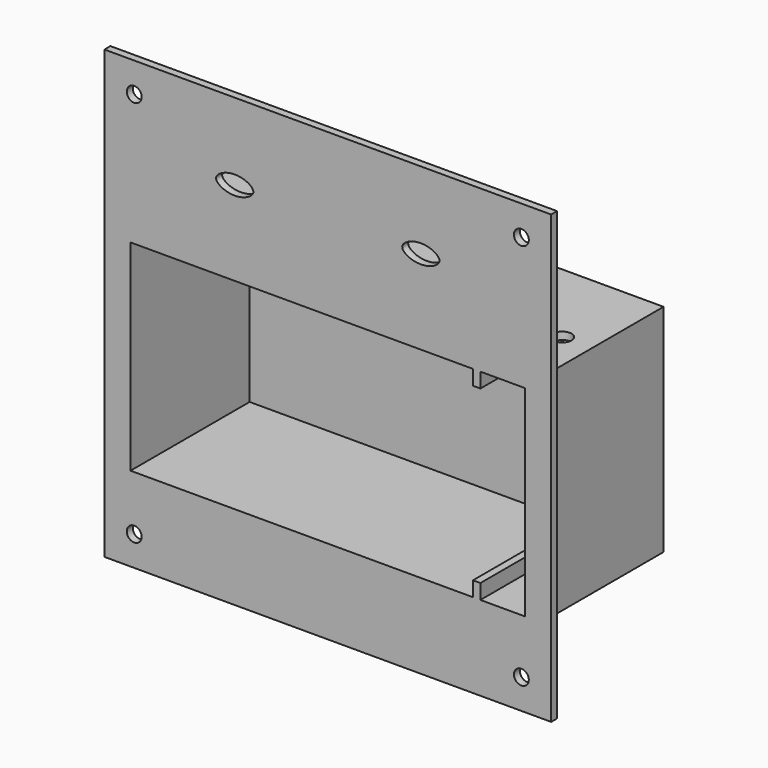
from build123d import *

# Parameters (mm, degrees)
F0_W     = 60
F0_H     = 60
F0_R     = 1
F0_W_2   = 55
F0_H_2   = 29
F1_DEPTH = 1
F2_DEPTH = 20
F3_W     = 55
F3_H     = 29
F4_DEPTH = 2
F5_R     = 1.25
F6_DEPTH = 1


with BuildPart() as f1:
    # F0 (on Front) → F1 (new body)
    with BuildSketch(Plane.XZ):
        with Locations((125, -47.5)):
            Rectangle(F0_W, F0_H)
        with Locations((99, -73.5)):
            Circle(F0_R, mode=Mode.SUBTRACT)
        with BuildLine():
            add(Edge.make_bspline(
                [(115.5, -27.8333333333), (115.5053577108, -27.7788793608), (115.5046155164, -27.6173160698), (115.4229520333, -27.3159864687), (115.1694184757, -27.0083733137), (114.8396391927, -26.7320721453), (114.4565636597, -26.5055538646), (113.9744634164, -26.3044772096), (113.4434639551, -26.138395569), (112.9239685432, -26.0775980772), (112.622564856, -26.077294909), (112.5, -26.0833333333)],
                knots=[0, 0, 0, 0, 0.1634113073, 0.4836883399, 0.9124679887, 1.3341141703, 1.7731849289, 2.2406235312, 2.899707559, 3.4345550853, 3.8026975859, 3.8026975859, 3.8026975859, 3.8026975859], degree=3))
            add(Edge.make_bspline(
                [(115.5, -27.8333333333), (115.5053577108, -27.8877873059), (115.5046155164, -28.0493505969), (115.4229520333, -28.3506801979), (115.1694184757, -28.658293353), (114.8396391927, -28.9345945214), (114.4565636597, -29.1611128021), (113.9744634164, -29.3621894571), (113.4434639551, -29.5282710976), (112.9239685432, -29.5890685895), (112.622564856, -29.5893717577), (112.5, -29.5833333333)],
                knots=[0, 0, 0, 0, 0.1634113073, 0.4836883399, 0.9124679887, 1.3341141703, 1.7731849289, 2.2406235312, 2.899707559, 3.4345550853, 3.8026975859, 3.8026975859, 3.8026975859, 3.8026975859], degree=3))
            add(Edge.make_bspline(
                [(109.5, -27.8333333333), (109.4946422892, -27.8877873059), (109.4953844836, -28.0493505969), (109.5770479667, -28.350680198), (109.8305815243, -28.658293353), (110.1603608073, -28.9345945214), (110.5434363403, -29.1611128021), (111.0255365836, -29.3621894571), (111.5565360449, -29.5282710976), (112.0760314568, -29.5890685895), (112.377435144, -29.5893717577), (112.5, -29.5833333333)],
                knots=[0, 0, 0, 0, 0.1634113073, 0.4836883399, 0.9124679887, 1.3341141703, 1.7731849289, 2.2406235313, 2.899707559, 3.4345550853, 3.8026975859, 3.8026975859, 3.8026975859, 3.8026975859], degree=3))
            add(Edge.make_bspline(
                [(109.5, -27.8333333333), (109.4946422892, -27.7788793608), (109.4953844836, -27.6173160698), (109.5770479667, -27.3159864687), (109.8305815243, -27.0083733137), (110.1603608073, -26.7320721453), (110.5434363403, -26.5055538646), (111.0255365836, -26.3044772096), (111.5565360449, -26.138395569), (112.0760314568, -26.0775980772), (112.377435144, -26.077294909), (112.5, -26.0833333333)],
                knots=[0, 0, 0, 0, 0.1634113073, 0.4836883399, 0.9124679887, 1.3341141703, 1.7731849289, 2.2406235313, 2.899707559, 3.4345550853, 3.8026975859, 3.8026975859, 3.8026975859, 3.8026975859], degree=3))
        make_face(mode=Mode.SUBTRACT)
        with Locations((151, -73.5)):
            Circle(F0_R, mode=Mode.SUBTRACT)
        with Locations((125, -52.6666666667)):
            Rectangle(F0_W_2, F0_H_2, mode=Mode.SUBTRACT)
        with BuildLine():
            add(Edge.make_bspline(
                [(134.5, -27.8333333333), (134.4946422892, -27.8877873059), (134.4953844836, -28.0493505969), (134.5770479667, -28.3506801979), (134.8305815243, -28.658293353), (135.1603608073, -28.9345945214), (135.5434363403, -29.1611128021), (136.0255365836, -29.3621894571), (136.5565360449, -29.5282710976), (137.0760314568, -29.5890685895), (137.377435144, -29.5893717577), (137.5, -29.5833333333)],
                knots=[0, 0, 0, 0, 0.1634113073, 0.4836883399, 0.9124679887, 1.3341141703, 1.7731849289, 2.2406235312, 2.899707559, 3.4345550853, 3.8026975859, 3.8026975859, 3.8026975859, 3.8026975859], degree=3))
            add(Edge.make_bspline(
                [(134.5, -27.8333333333), (134.4946422892, -27.7788793608), (134.4953844836, -27.6173160698), (134.5770479667, -27.3159864687), (134.8305815243, -27.0083733137), (135.1603608073, -26.7320721453), (135.5434363403, -26.5055538646), (136.0255365836, -26.3044772096), (136.5565360449, -26.138395569), (137.0760314568, -26.0775980772), (137.377435144, -26.077294909), (137.5, -26.0833333333)],
                knots=[0, 0, 0, 0, 0.1634113073, 0.4836883399, 0.9124679887, 1.3341141703, 1.7731849289, 2.2406235312, 2.899707559, 3.4345550853, 3.8026975859, 3.8026975859, 3.8026975859, 3.8026975859], degree=3))
            add(Edge.make_bspline(
                [(140.5, -27.8333333333), (140.5053577108, -27.7788793608), (140.5046155164, -27.6173160698), (140.4229520333, -27.3159864687), (140.1694184757, -27.0083733137), (139.8396391927, -26.7320721453), (139.4565636597, -26.5055538646), (138.9744634164, -26.3044772096), (138.4434639551, -26.138395569), (137.9239685432, -26.0775980772), (137.622564856, -26.077294909), (137.5, -26.0833333333)],
                knots=[0, 0, 0, 0, 0.1634113073, 0.4836883399, 0.9124679887, 1.3341141703, 1.7731849289, 2.2406235313, 2.899707559, 3.4345550853, 3.8026975859, 3.8026975859, 3.8026975859, 3.8026975859], degree=3))
            add(Edge.make_bspline(
                [(140.5, -27.8333333333), (140.5053577108, -27.8877873059), (140.5046155164, -28.0493505969), (140.4229520333, -28.350680198), (140.1694184757, -28.658293353), (139.8396391927, -28.9345945214), (139.4565636597, -29.1611128021), (138.9744634164, -29.3621894571), (138.4434639551, -29.5282710976), (137.9239685432, -29.5890685895), (137.622564856, -29.5893717577), (137.5, -29.5833333333)],
                knots=[0, 0, 0, 0, 0.1634113073, 0.4836883399, 0.9124679887, 1.3341141703, 1.7731849289, 2.2406235313, 2.899707559, 3.4345550853, 3.8026975859, 3.8026975859, 3.8026975859, 3.8026975859], degree=3))
        make_face(mode=Mode.SUBTRACT)
        with Locations((99, -21.5)):
            Circle(F0_R, mode=Mode.SUBTRACT)
        with Locations((151, -21.5)):
            Circle(F0_R, mode=Mode.SUBTRACT)
        with BuildLine():
            add(Edge.make_bspline(
                [(115.5, -27.8333333333), (115.5053577108, -27.8877873059), (115.5046155164, -28.0493505969), (115.4229520333, -28.3506801979), (115.1694184757, -28.658293353), (114.8396391927, -28.9345945214), (114.4565636597, -29.1611128021), (113.9744634164, -29.3621894571), (113.4434639551, -29.5282710976), (112.9239685432, -29.5890685895), (112.622564856, -29.5893717577), (112.5, -29.5833333333)],
                knots=[0, 0, 0, 0, 0.1634113073, 0.4836883399, 0.9124679887, 1.3341141703, 1.7731849289, 2.2406235312, 2.899707559, 3.4345550853, 3.8026975859, 3.8026975859, 3.8026975859, 3.8026975859], degree=3))
            add(Edge.make_bspline(
                [(115.5, -27.8333333333), (115.5053577108, -27.7788793608), (115.5046155164, -27.6173160698), (115.4229520333, -27.3159864687), (115.1694184757, -27.0083733137), (114.8396391927, -26.7320721453), (114.4565636597, -26.5055538646), (113.9744634164, -26.3044772096), (113.4434639551, -26.138395569), (112.9239685432, -26.0775980772), (112.622564856, -26.077294909), (112.5, -26.0833333333)],
                knots=[0, 0, 0, 0, 0.1634113073, 0.4836883399, 0.9124679887, 1.3341141703, 1.7731849289, 2.2406235312, 2.899707559, 3.4345550853, 3.8026975859, 3.8026975859, 3.8026975859, 3.8026975859], degree=3))
            add(Edge.make_bspline(
                [(109.5, -27.8333333333), (109.4946422892, -27.7788793608), (109.4953844836, -27.6173160698), (109.5770479667, -27.3159864687), (109.8305815243, -27.0083733137), (110.1603608073, -26.7320721453), (110.5434363403, -26.5055538646), (111.0255365836, -26.3044772096), (111.5565360449, -26.138395569), (112.0760314568, -26.0775980772), (112.377435144, -26.077294909), (112.5, -26.0833333333)],
                knots=[0, 0, 0, 0, 0.1634113073, 0.4836883399, 0.9124679887, 1.3341141703, 1.7731849289, 2.2406235313, 2.899707559, 3.4345550853, 3.8026975859, 3.8026975859, 3.8026975859, 3.8026975859], degree=3))
            add(Edge.make_bspline(
                [(109.5, -27.8333333333), (109.4946422892, -27.8877873059), (109.4953844836, -28.0493505969), (109.5770479667, -28.350680198), (109.8305815243, -28.658293353), (110.1603608073, -28.9345945214), (110.5434363403, -29.1611128021), (111.0255365836, -29.3621894571), (111.5565360449, -29.5282710976), (112.0760314568, -29.5890685895), (112.377435144, -29.5893717577), (112.5, -29.5833333333)],
                knots=[0, 0, 0, 0, 0.1634113073, 0.4836883399, 0.9124679887, 1.3341141703, 1.7731849289, 2.2406235313, 2.899707559, 3.4345550853, 3.8026975859, 3.8026975859, 3.8026975859, 3.8026975859], degree=3))
        make_face()
        with BuildLine():
            add(Edge.make_bspline(
                [(110, -27.8333333333), (110, -28.0833333333), (110.5018133067, -28.705622104), (111.7, -29.0833333333), (112.5, -29.0833333333)],
                knots=[0, 0, 0, 0, 0.3917230185, 1, 1, 1, 1], degree=3))
            add(Edge.make_bspline(
                [(110, -27.8333333333), (110, -27.5833333333), (110.5018133067, -26.9610445627), (111.7, -26.5833333333), (112.5, -26.5833333333)],
                knots=[0, 0, 0, 0, 0.3917230185, 1, 1, 1, 1], degree=3))
            add(Edge.make_bspline(
                [(115, -27.8333333333), (115, -27.5833333333), (114.4981866933, -26.9610445627), (113.3, -26.5833333333), (112.5, -26.5833333333)],
                knots=[0, 0, 0, 0, 0.3917230185, 1, 1, 1, 1], degree=3))
            add(Edge.make_bspline(
                [(115, -27.8333333333), (115, -28.0833333333), (114.4981866933, -28.705622104), (113.3, -29.0833333333), (112.5, -29.0833333333)],
                knots=[0, 0, 0, 0, 0.3917230185, 1, 1, 1, 1], degree=3))
        make_face(mode=Mode.SUBTRACT)
        with BuildLine():
            add(Edge.make_bspline(
                [(134.5, -27.8333333333), (134.4946422892, -27.7788793608), (134.4953844836, -27.6173160698), (134.5770479667, -27.3159864687), (134.8305815243, -27.0083733137), (135.1603608073, -26.7320721453), (135.5434363403, -26.5055538646), (136.0255365836, -26.3044772096), (136.5565360449, -26.138395569), (137.0760314568, -26.0775980772), (137.377435144, -26.077294909), (137.5, -26.0833333333)],
                knots=[0, 0, 0, 0, 0.1634113073, 0.4836883399, 0.9124679887, 1.3341141703, 1.7731849289, 2.2406235312, 2.899707559, 3.4345550853, 3.8026975859, 3.8026975859, 3.8026975859, 3.8026975859], degree=3))
            add(Edge.make_bspline(
                [(134.5, -27.8333333333), (134.4946422892, -27.8877873059), (134.4953844836, -28.0493505969), (134.5770479667, -28.3506801979), (134.8305815243, -28.658293353), (135.1603608073, -28.9345945214), (135.5434363403, -29.1611128021), (136.0255365836, -29.3621894571), (136.5565360449, -29.5282710976), (137.0760314568, -29.5890685895), (137.377435144, -29.5893717577), (137.5, -29.5833333333)],
                knots=[0, 0, 0, 0, 0.1634113073, 0.4836883399, 0.9124679887, 1.3341141703, 1.7731849289, 2.2406235312, 2.899707559, 3.4345550853, 3.8026975859, 3.8026975859, 3.8026975859, 3.8026975859], degree=3))
            add(Edge.make_bspline(
                [(140.5, -27.8333333333), (140.5053577108, -27.8877873059), (140.5046155164, -28.0493505969), (140.4229520333, -28.350680198), (140.1694184757, -28.658293353), (139.8396391927, -28.9345945214), (139.4565636597, -29.1611128021), (138.9744634164, -29.3621894571), (138.4434639551, -29.5282710976), (137.9239685432, -29.5890685895), (137.622564856, -29.5893717577), (137.5, -29.5833333333)],
                knots=[0, 0, 0, 0, 0.1634113073, 0.4836883399, 0.9124679887, 1.3341141703, 1.7731849289, 2.2406235313, 2.899707559, 3.4345550853, 3.8026975859, 3.8026975859, 3.8026975859, 3.8026975859], degree=3))
            add(Edge.make_bspline(
                [(140.5, -27.8333333333), (140.5053577108, -27.7788793608), (140.5046155164, -27.6173160698), (140.4229520333, -27.3159864687), (140.1694184757, -27.0083733137), (139.8396391927, -26.7320721453), (139.4565636597, -26.5055538646), (138.9744634164, -26.3044772096), (138.4434639551, -26.138395569), (137.9239685432, -26.0775980772), (137.622564856, -26.077294909), (137.5, -26.0833333333)],
                knots=[0, 0, 0, 0, 0.1634113073, 0.4836883399, 0.9124679887, 1.3341141703, 1.7731849289, 2.2406235313, 2.899707559, 3.4345550853, 3.8026975859, 3.8026975859, 3.8026975859, 3.8026975859], degree=3))
        make_face()
        with BuildLine():
            add(Edge.make_bspline(
                [(135, -27.8333333333), (135, -28.0833333333), (135.5018133067, -28.705622104), (136.7, -29.0833333333), (137.5, -29.0833333333)],
                knots=[0, 0, 0, 0, 0.3917230185, 1, 1, 1, 1], degree=3))
            add(Edge.make_bspline(
                [(135, -27.8333333333), (135, -27.5833333333), (135.5018133067, -26.9610445627), (136.7, -26.5833333333), (137.5, -26.5833333333)],
                knots=[0, 0, 0, 0, 0.3917230185, 1, 1, 1, 1], degree=3))
            add(Edge.make_bspline(
                [(140, -27.8333333333), (140, -27.5833333333), (139.4981866933, -26.9610445627), (138.3, -26.5833333333), (137.5, -26.5833333333)],
                knots=[0, 0, 0, 0, 0.3917230185, 1, 1, 1, 1], degree=3))
            add(Edge.make_bspline(
                [(140, -27.8333333333), (140, -28.0833333333), (139.4981866933, -28.705622104), (138.3, -29.0833333333), (137.5, -29.0833333333)],
                knots=[0, 0, 0, 0, 0.3917230185, 1, 1, 1, 1], degree=3))
        make_face(mode=Mode.SUBTRACT)
        with Locations((125, -52.6666666667)):
            Rectangle(F0_W_2, F0_H_2)
        Polygon((98.5, -39.1666666667), (144.5, -39.1666666667), (144.5, -41.1666666667), (145.5, -41.1666666667), (145.5, -39.1666666667), (151.5, -39.1666666667), (151.5, -66.1666666667), (145.5, -66.1666666667), (145.5, -64.1666666667), (144.5, -64.1666666667), (144.5, -66.1666666667), (98.5, -66.1666666667), align=None, mode=Mode.SUBTRACT)
    extrude(amount=-F1_DEPTH)

    # F0 (on Front) → F2 (join)
    with BuildSketch(Plane.XZ):
        with Locations((125, -52.6666666667)):
            Rectangle(F0_W_2, F0_H_2)
        Polygon((98.5, -39.1666666667), (144.5, -39.1666666667), (144.5, -41.1666666667), (145.5, -41.1666666667), (145.5, -39.1666666667), (151.5, -39.1666666667), (151.5, -66.1666666667), (145.5, -66.1666666667), (145.5, -64.1666666667), (144.5, -64.1666666667), (144.5, -66.1666666667), (98.5, -66.1666666667), align=None, mode=Mode.SUBTRACT)
    extrude(amount=-F2_DEPTH)

    # F3 (on face) → F4 (join)
    with BuildSketch(Plane(origin=(0, 20, 0), x_dir=(-1, 0, 0), z_dir=(0, 1, 0))):
        with Locations((-125, -52.6666666667)):
            Rectangle(F3_W, F3_H)
    extrude(amount=F4_DEPTH)

    # F5 (on face) → F6 (cut, through all)
    with BuildSketch(Plane(origin=(0, 0, -39.1666666667), x_dir=(1, 0, 0), z_dir=(0, 0, -1))):
        with Locations((148.5, -10)):
            Circle(F5_R)
    extrude(amount=-F6_DEPTH, mode=Mode.SUBTRACT)


solid = f1.part
